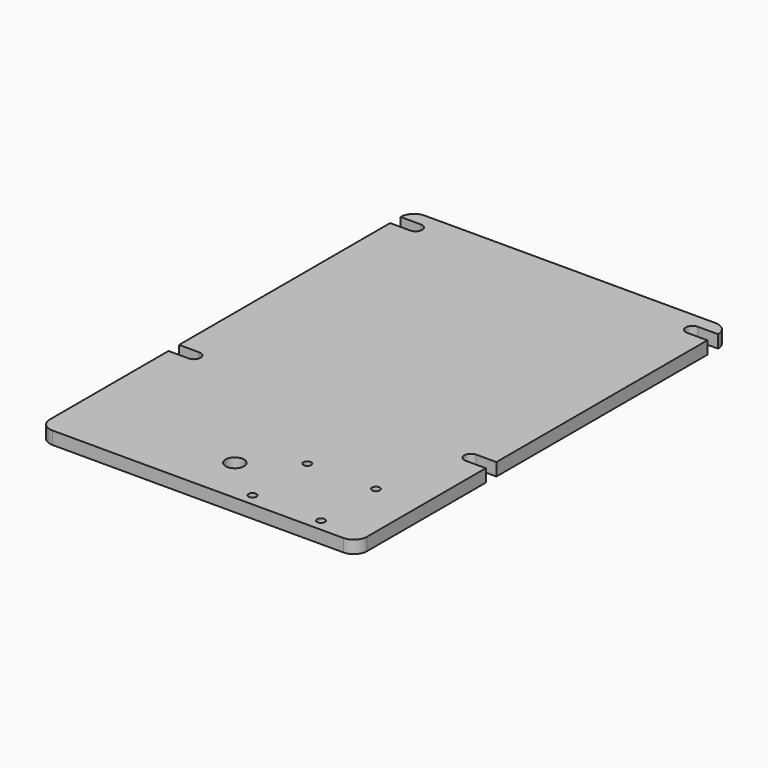
from build123d import *

# Parameters (mm, degrees)
F1_R     = 3.5
F1_R_2   = 1.4732
F2_DEPTH = 4.826
F3_R     = 5


with BuildPart() as f2:
    # F1 (on face) → F2 (new body)
    with BuildSketch(Plane.XY):
        with BuildLine():
            Line((60, 54.875), (60, 60))
            Line((60, 60), (-60, 60))
            Line((-60, 60), (-60, 54.875))
            Line((-60, 54.875), (-52.375, 54.875))
            ThreePointArc((-52.375, 54.875), (-50.607233, 54.142767), (-49.875, 52.375))
            ThreePointArc((-49.875, 52.375), (-50.607233, 50.607233), (-52.375, 49.875))
            Line((-52.375, 49.875), (-60, 49.875))
            Line((-60, 49.875), (-60, -49.875))
            Line((-60, -49.875), (-52.375, -49.875))
            ThreePointArc((-52.375, -49.875), (-50.607233, -50.607233), (-49.875, -52.375))
            ThreePointArc((-49.875, -52.375), (-50.607233, -54.142767), (-52.375, -54.875))
            Line((-52.375, -54.875), (-60, -54.875))
            Line((-60, -54.875), (-60, -60))
            Line((-60, -60), (-60, -116))
            Line((-60, -116), (60, -116))
            Line((60, -116), (60, -60))
            Line((60, -60), (60, -54.875))
            Line((60, -54.875), (52.375, -54.875))
            ThreePointArc((52.375, -54.875), (49.875, -52.375), (52.375, -49.875))
            Line((52.375, -49.875), (60, -49.875))
            Line((60, -49.875), (60, 49.875))
            Line((60, 49.875), (52.375, 49.875))
            ThreePointArc((52.375, 49.875), (49.875, 52.375), (52.375, 54.875))
            Line((52.375, 54.875), (60, 54.875))
        make_face()
        with Locations((0, -98.5)):
            Circle(F1_R, mode=Mode.SUBTRACT)
        with Locations((17.025, -111.475)):
            Circle(F1_R_2, mode=Mode.SUBTRACT)
        with Locations((17.025, -85.525)):
            Circle(F1_R_2, mode=Mode.SUBTRACT)
        with Locations((42.975, -111.475)):
            Circle(F1_R_2, mode=Mode.SUBTRACT)
        with Locations((42.975, -85.525)):
            Circle(F1_R_2, mode=Mode.SUBTRACT)
    extrude(amount=F2_DEPTH)

    # F3
    f3_edges = [f2.edges().sort_by_distance(p)[0] for p in [
        (-60, 60, 2.413),
        (60, 60, 2.413),
        (60, -116, 2.413),
        (-60, -116, 2.413),
    ]]
    fillet(f3_edges, radius=F3_R)


solid = f2.part
